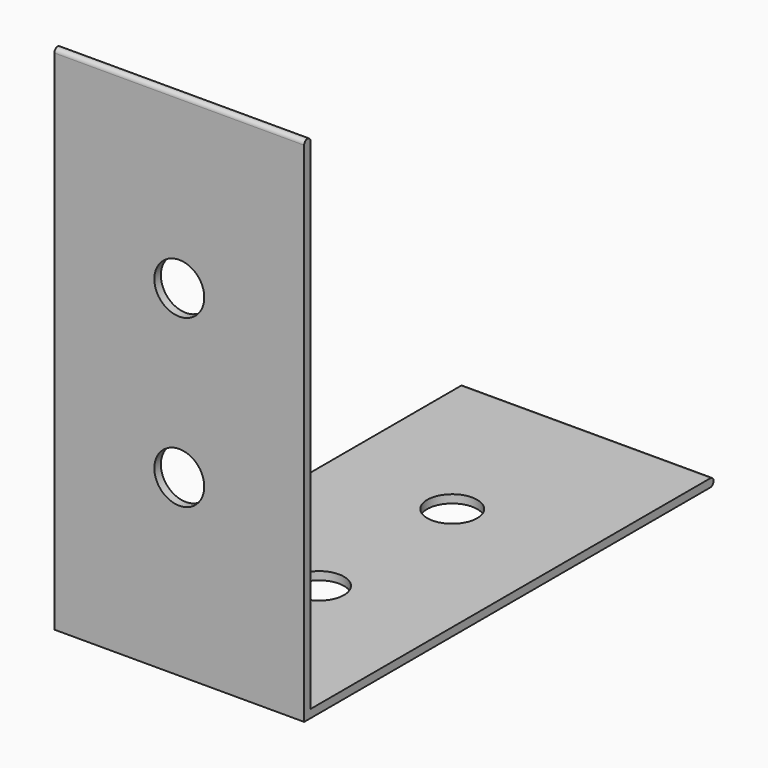
from build123d import *

# Parameters (mm, degrees)
F1_DEPTH = 7.5
F2_R     = 1.5
F3_DEPTH = 0.4910000058
F4_R     = 1.5
F5_DEPTH = 0.4910000058


with BuildPart() as f1:
    # F0 (on Right) → F1 (new body, symmetric)
    with BuildSketch(Plane.YZ):
        with BuildLine():
            Line((0, 0), (0, 30))
            ThreePointArc((0, 30), (-0.2450000029, 30.2450000029), (-0.4900000058, 30))
            Line((-0.4900000058, 30), (-0.4900000058, -0.4900000058))
            Line((-0.4900000058, -0.4900000058), (30, -0.4900000058))
            ThreePointArc((30, -0.4900000058), (30.2450000029, -0.2450000029), (30, 0))
            Line((30, 0), (0, 0))
        make_face()
    extrude(amount=F1_DEPTH, both=True)

    # F2 (on face) → F3 (cut, through all)
    with BuildSketch(Plane(origin=(0, 0, 0), x_dir=(-1, 0, 0), z_dir=(0, 1, 0))):
        with Locations((0, 20)):
            Circle(F2_R)
        with Locations((0, 10)):
            Circle(F2_R)
    extrude(amount=-F3_DEPTH, mode=Mode.SUBTRACT)

    # F4 (on face) → F5 (cut, through all)
    with BuildSketch(Plane.XY):
        with Locations((0, 20)):
            Circle(F4_R)
        with Locations((0, 10)):
            Circle(F4_R)
    extrude(amount=-F5_DEPTH, mode=Mode.SUBTRACT)


solid = f1.part
